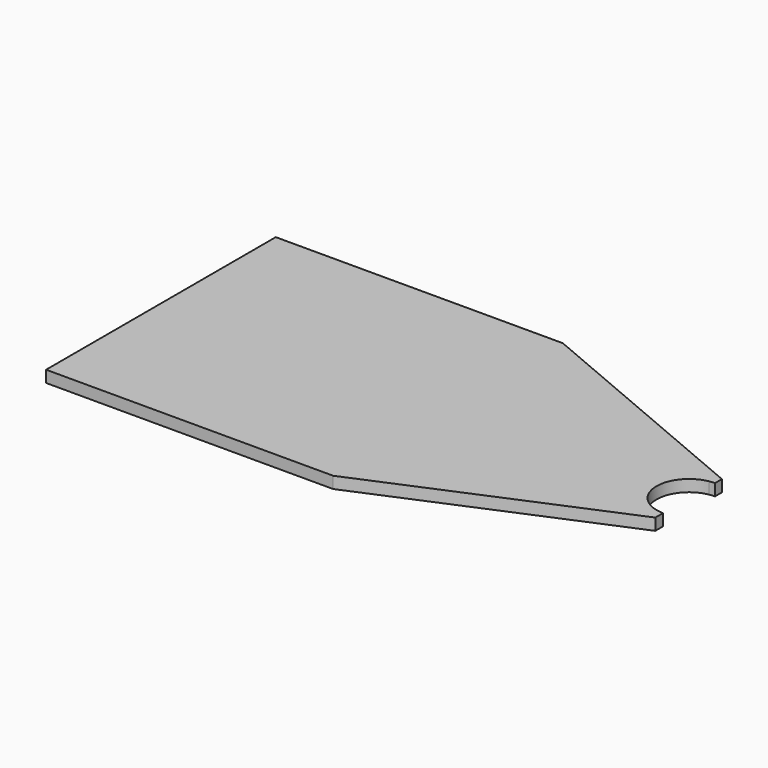
from build123d import *

# Parameters (mm, degrees)
F1_DEPTH = 2.2


with BuildPart() as f1:
    # F0 (on Top) → F1 (new body)
    with BuildSketch(Plane.XY):
        Polygon((-33.365452, 16.887218), (-33.365452, 19.05918), (-87.365452, 19.05918), (-87.365452, -34.94082), (-33.365452, -34.94082), (-33.365452, -32.768858), align=None)
        with BuildLine():
            Line((11.894325, -0.108442), (-33.365452, 19.05918))
            Line((-33.365452, 19.05918), (-33.365452, 16.887218))
            Line((-33.365452, 16.887218), (-31.365452, 16.040213))
            Line((-31.365452, 16.040213), (10.837882, -1.832998))
            ThreePointArc((10.837882, -1.832998), (11.364097, -1.763908), (11.894325, -1.74082))
            Line((11.894325, -1.74082), (11.894325, -0.108442))
        make_face()
        Polygon((-31.365452, 16.040213), (-33.365452, 16.887218), (-33.365452, -32.768858), (-31.365452, -31.921853), (-31.365452, -7.94082), align=None)
        with BuildLine():
            Line((10.837882, -1.832998), (-31.365452, 16.040213))
            Line((-31.365452, 16.040213), (-31.365452, -7.94082))
            Line((-31.365452, -7.94082), (-31.365452, -31.921853))
            Line((-31.365452, -31.921853), (11.189069, -13.899913))
            ThreePointArc((11.189069, -13.899913), (5.796907, -8.018275), (10.837882, -1.832998))
        make_face()
        with BuildLine():
            Line((-31.365452, -31.921853), (-33.365452, -32.768858))
            Line((-33.365452, -32.768858), (-33.365452, -34.94082))
            Line((-33.365452, -34.94082), (11.894325, -15.773198))
            Line((11.894325, -15.773198), (11.894325, -13.94082))
            ThreePointArc((11.894325, -13.94082), (11.541105, -13.930585), (11.189069, -13.899913))
            Line((11.189069, -13.899913), (-31.365452, -31.921853))
        make_face()
    extrude(amount=F1_DEPTH)


solid = f1.part
